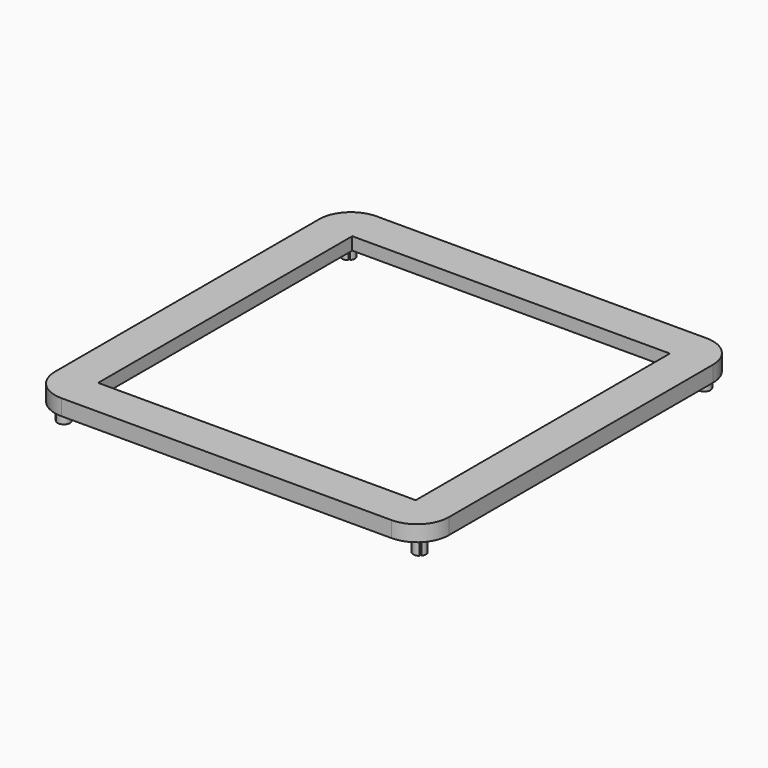
from build123d import *

# Parameters (mm, degrees)
F0_R          = 1
F0_W          = 52
F0_H          = 52
F0_W_2        = 50
F0_H_2        = 50
F1_DEPTH      = 2.5
F2_DEPTH      = 0.5
F3_W          = 52
F3_H          = 5
F4_DEPTH      = 0.5
F5_DEPTH      = 2.5
F5_DEPTH_BACK = 2.5
F7_DEPTH      = 2.5
F9_DEPTH      = 2.5


with BuildPart() as f1:
    # F0 (on Top) → F1 (new body)
    with BuildSketch(Plane.XY):
        with BuildLine():
            Line((57, 0), (5, 0))
            ThreePointArc((5, 0), (1.4644660941, -1.4644660941), (0, -5))
            Line((0, -5), (0, -57))
            ThreePointArc((0, -57), (1.4644660941, -60.5355339059), (5, -62))
            Line((5, -62), (57, -62))
            ThreePointArc((57, -62), (60.5355339059, -60.5355339059), (62, -57))
            Line((62, -57), (62, -5))
            ThreePointArc((62, -5), (60.5355339059, -1.4644660941), (57, 0))
        make_face()
        with Locations((3, -59)):
            Circle(F0_R, mode=Mode.SUBTRACT)
        with Locations((59, -59)):
            Circle(F0_R, mode=Mode.SUBTRACT)
        with Locations((3, -3)):
            Circle(F0_R, mode=Mode.SUBTRACT)
        with Locations((31, -31)):
            Rectangle(F0_W, F0_H, mode=Mode.SUBTRACT)
        with Locations((59, -3)):
            Circle(F0_R, mode=Mode.SUBTRACT)
        with Locations((31, -31)):
            Rectangle(F0_W, F0_H)
        with Locations((31, -31)):
            Rectangle(F0_W_2, F0_H_2, mode=Mode.SUBTRACT)
    extrude(amount=F1_DEPTH)

    # F0 (on Top) → F2 (cut)
    with BuildSketch(Plane.XY):
        with Locations((31, -31)):
            Rectangle(F0_W, F0_H)
        with Locations((31, -31)):
            Rectangle(F0_W_2, F0_H_2, mode=Mode.SUBTRACT)
    extrude(amount=F2_DEPTH, mode=Mode.SUBTRACT)

    # F3 (on face) → F4 (cut)
    with BuildSketch(Plane.XY):
        with Locations((31, -2.5)):
            Rectangle(F3_W, F3_H)
    extrude(amount=F4_DEPTH, mode=Mode.SUBTRACT)

    # F0 (on Top) → F5 (join, two sides)
    with BuildSketch(Plane.XY) as f5_sk:
        with Locations((59, -59)):
            Circle(F0_R)
        with Locations((59, -3)):
            Circle(F0_R)
        with Locations((3, -3)):
            Circle(F0_R)
        with Locations((3, -59)):
            Circle(F0_R)
    extrude(amount=F5_DEPTH)
    extrude(f5_sk.sketch, amount=-F5_DEPTH_BACK)

    # F6 (on face) → F7 (cut)
    with BuildSketch(Plane(origin=(0, 0, -2.5), x_dir=(1, 0, 0), z_dir=(0, 0, -1))):
        with BuildLine():
            ThreePointArc((58.3671483141, 3.7742730421), (58.2928932188, 3.7071067812), (58.2257269579, 3.6328516859))
            Line((58.2257269579, 3.6328516859), (59.6328516859, 2.2257269579))
            ThreePointArc((59.6328516859, 2.2257269579), (59.7071067812, 2.2928932188), (59.7742730421, 2.3671483141))
            Line((59.7742730421, 2.3671483141), (58.3671483141, 3.7742730421))
        make_face()
    extrude(amount=-F7_DEPTH, mode=Mode.SUBTRACT)

    # F8 (on face) → F9 (cut)
    with BuildSketch(Plane(origin=(0, 0, -2.5), x_dir=(1, 0, 0), z_dir=(0, 0, -1))):
        with BuildLine():
            ThreePointArc((58.2221825407, 58.3636038969), (58.2221825407, 58.2221825407), (58.3636038969, 58.2221825407))
            Line((58.3636038969, 58.2221825407), (59.7778174593, 59.6363961031))
            ThreePointArc((59.7778174593, 59.6363961031), (59.7778174593, 59.7778174593), (59.6363961031, 59.7778174593))
            Line((59.6363961031, 59.7778174593), (58.2221825407, 58.3636038969))
        make_face()
        with BuildLine():
            ThreePointArc((2.2221825407, 2.3636038969), (2.2221825407, 2.2221825407), (2.3636038969, 2.2221825407))
            Line((2.3636038969, 2.2221825407), (3.7778174593, 3.6363961031))
            ThreePointArc((3.7778174593, 3.6363961031), (3.7778174593, 3.7778174593), (3.6363961031, 3.7778174593))
            Line((3.6363961031, 3.7778174593), (2.2221825407, 2.3636038969))
        make_face()
        with BuildLine():
            ThreePointArc((2.3671483141, 59.7742730421), (2.2928932188, 59.7071067812), (2.2257269579, 59.6328516859))
            Line((2.2257269579, 59.6328516859), (3.6328516859, 58.2257269579))
            ThreePointArc((3.6328516859, 58.2257269579), (3.7071067812, 58.2928932188), (3.7742730421, 58.3671483141))
            Line((3.7742730421, 58.3671483141), (2.3671483141, 59.7742730421))
        make_face()
    extrude(amount=-F9_DEPTH, mode=Mode.SUBTRACT)


solid = f1.part
